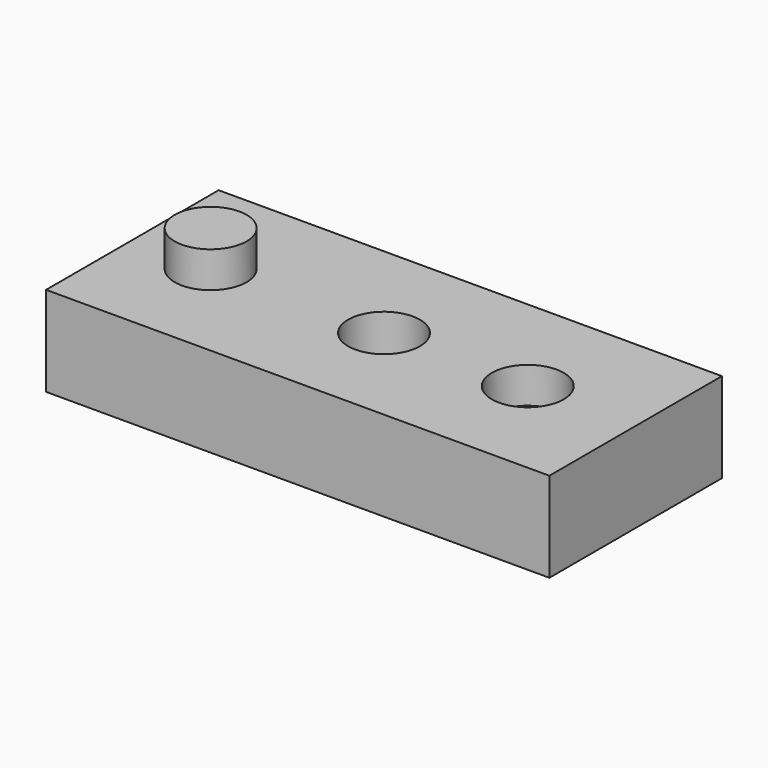
from build123d import *

# Parameters (mm, degrees)
F0_W     = 140
F0_H     = 60
F1_DEPTH = 25
F2_R     = 10
F5_DEPTH = 10
F4_R     = 10
F6_DEPTH = 41.8
F3_R     = 10
F7_DEPTH = 10


with BuildPart() as f1:
    # F0 (on Top) → F1 (new body)
    with BuildSketch(Plane.XY):
        Rectangle(F0_W, F0_H)
    extrude(amount=F1_DEPTH)

    # F2 (on face) → F5 (join)
    with BuildSketch(Plane.XY.offset(25)):
        with Locations((-48.220878, 0)):
            Circle(F2_R)
    extrude(amount=F5_DEPTH)

    # F4 (on face) → F6 (cut)
    with BuildSketch(Plane.XY.offset(25)):
        Circle(F4_R)
    extrude(amount=-F6_DEPTH, mode=Mode.SUBTRACT)

    # F3 (on face) → F7 (cut)
    with BuildSketch(Plane.XY.offset(25)):
        with Locations((40, 0)):
            Circle(F3_R)
    extrude(amount=-F7_DEPTH, mode=Mode.SUBTRACT)


solid = f1.part
